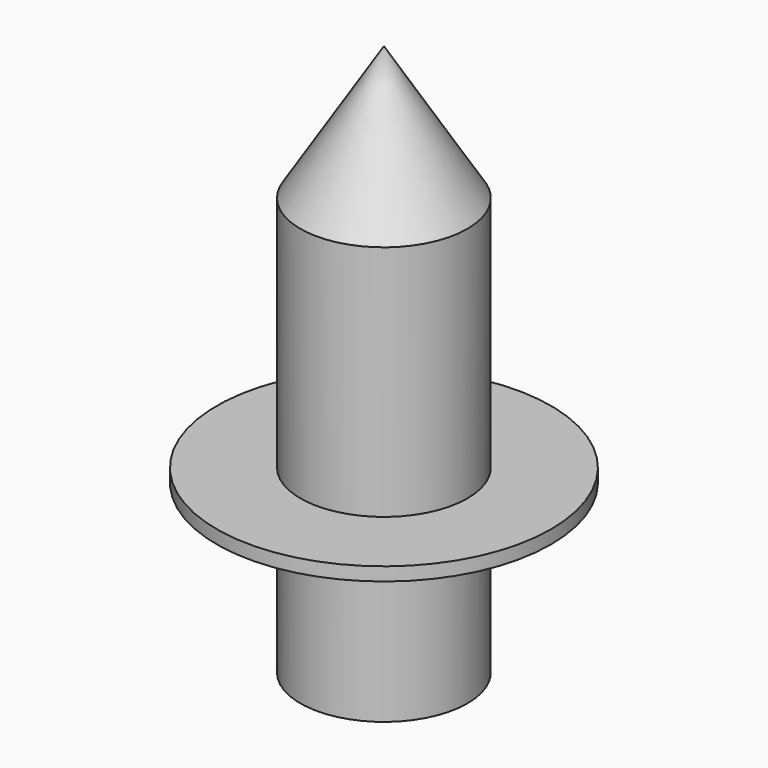
from build123d import *

# Parameters (mm, degrees)
F0_R      = 3.175
F1_DEPTH  = 15.875
F3_R      = 6.35
F4_DEPTH  = 0.508
F1_FACE_R = 3.175


with BuildPart() as f1:
    # F0 (on Top) → F1 (new body)
    with BuildSketch(Plane.XY):
        Circle(F0_R)
    extrude(amount=F1_DEPTH)

    # F3 (on offset) → F4 (join)
    with BuildSketch(Plane.XY.offset(6.35)):
        Circle(F3_R)
    extrude(amount=F4_DEPTH)

    # F1_face (on face) → F7 section 0
    with BuildSketch(Plane.XY.offset(15.875), mode=Mode.PRIVATE) as f7_s0:
        Circle(F1_FACE_R)
    loft([f7_s0.sketch, Vertex(0, 0, 20.955)])


solid = f1.part
